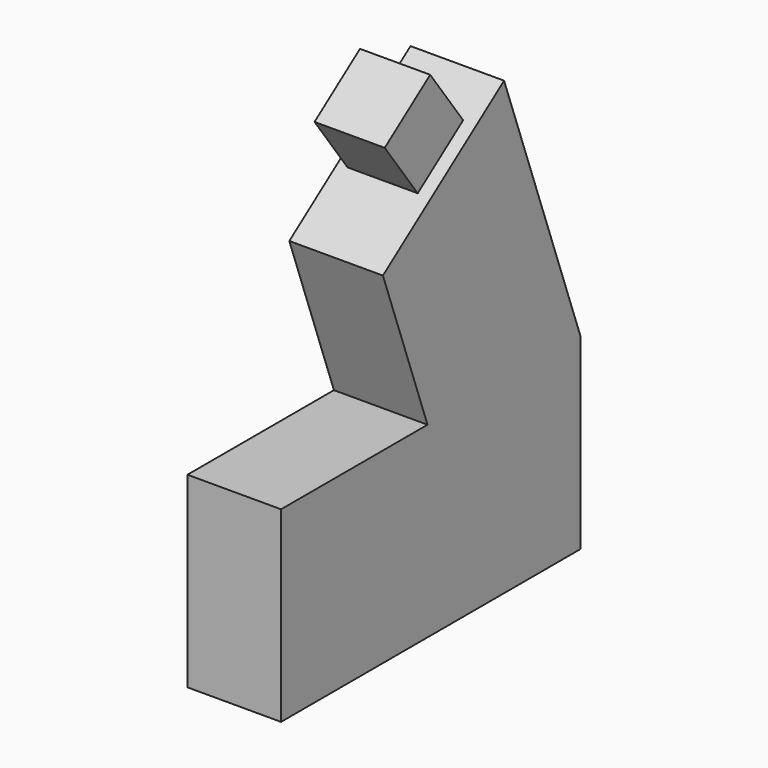
from build123d import *

# Parameters (mm, degrees)
F1_DEPTH = 25.4
F2_W     = 19.05
F2_H     = 19.05
F3_DEPTH = 19.05


with BuildPart() as f1:
    # F0 (on Right) → F1 (new body)
    with BuildSketch(Plane.YZ):
        Polygon((-67.0450606095, 41.7946282453), (-51.9119330465, 0), (0, 0), (-25.9425043938, 71.6479341348), align=None)
        Polygon((-51.9119330465, 0), (-101.6, 0), (-101.6, -50.8), (0, -50.8), (0, 0), align=None)
    extrude(amount=F1_DEPTH)

    # F2 (on face) → F3 (join)
    with BuildSketch(Plane(origin=(0, -43.0264861608, 59.2396223299), x_dir=(1, 0, 0), z_dir=(0, -0.5876635018, 0.8091054373))):
        with Locations((12.2738424689, 0)):
            Rectangle(F2_W, F2_H)
    extrude(amount=F3_DEPTH)


solid = f1.part
